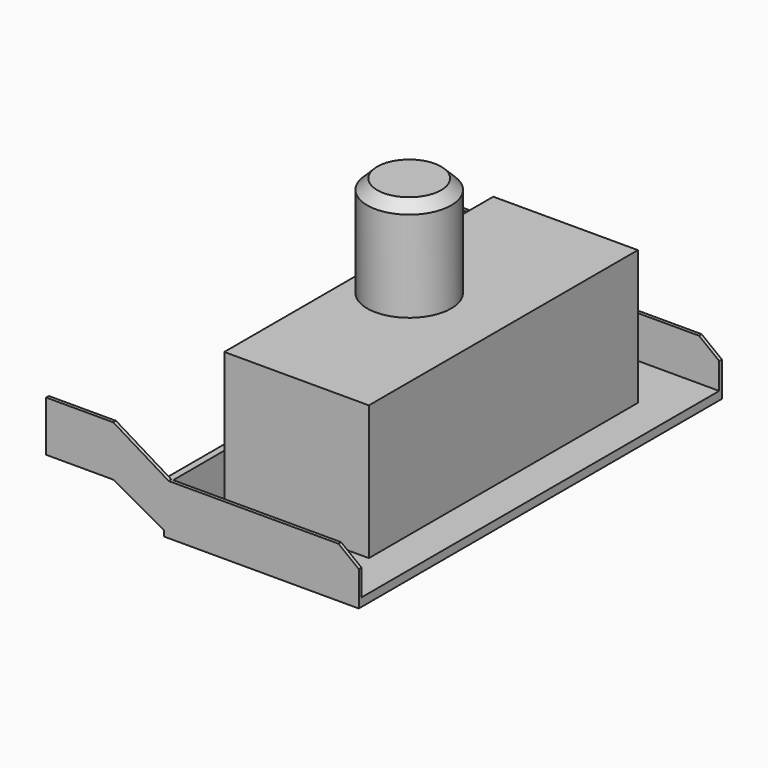
from build123d import *

# Parameters (mm, degrees)
F0_W     = 200
F0_H     = 150
F1_DEPTH = 10
F2_W     = 20
F2_H     = 125
F3_DEPTH = 1330
F5_DEPTH = 10
F6_W     = 430
F6_H     = 1000
F7_DEPTH = 400
F8_R     = 125
F9_DEPTH = 300
F10_SIZE = 30


with BuildPart() as f1:
    # F0 (on Front) → F1 (new body)
    with BuildSketch(Plane.XZ):
        with Locations((100, 175)):
            Rectangle(F0_W, F0_H)
        Polygon((364.690214, 150), (200, 250), (200, 100), (350, 17.274393), (350, 0), (930, 0), (930, 103.201143), (869.509816, 150), align=None)
    extrude(amount=F1_DEPTH)

    # F2 (on face) → F3 (join)
    with BuildSketch(Plane.XZ.offset(10)):
        Polygon((350, 25), (350, 0), (930, 0), (930, 25), (370, 25), align=None)
        with Locations((360, 87.5)):
            Rectangle(F2_W, F2_H)
    extrude(amount=F3_DEPTH)

    # F4 (on face) → F5 (join)
    with BuildSketch(Plane.XZ.offset(1340)):
        Polygon((200, 250), (0, 250), (0, 100), (200, 100), (350, 17.274393), (350, 150), (364.690214, 150), align=None)
        Polygon((370, 150), (364.690214, 150), (350, 150), (350, 17.274393), (350, 0), (930, 0), (930, 25), (370, 25), align=None)
        Polygon((869.509816, 150), (370, 150), (370, 25), (930, 25), (930, 103.201143), align=None)
    extrude(amount=F5_DEPTH)


with BuildPart() as f7:
    # F6 (on face) → F7 (new body)
    with BuildSketch(Plane.XY.offset(25)):
        with Locations((605, -675)):
            Rectangle(F6_W, F6_H)
    extrude(amount=F7_DEPTH)

    # F8 (on face) → F9 (join)
    with BuildSketch(Plane.XY.offset(425)):
        with Locations((540, -675)):
            Circle(F8_R)
    extrude(amount=F9_DEPTH)

    # F10
    f10_edges = [f7.edges().sort_by_distance(p)[0] for p in [
        (415, -675, 725),
    ]]
    chamfer(f10_edges, length=F10_SIZE)


solid = Compound([f1.part, f7.part])
